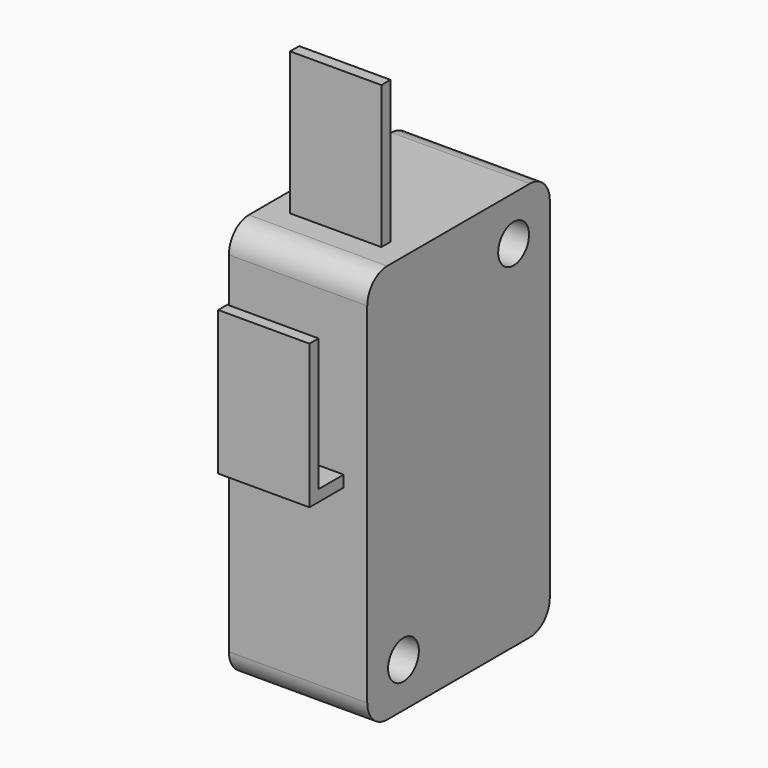
from build123d import *

# Parameters (mm, degrees)
SKETCH061_R             = 1.35
PAD061_DEPTH            = 9.7
SKETCH062_W             = 2.9
SKETCH062_H             = 4.1
PAD062_DEPTH            = 3
SKETCH063_W             = 0.8
SKETCH063_H             = 6.4
PAD063_DEPTH            = 10
SKETCH064_W             = 0.8
SKETCH064_H             = 6.4
PAD064_DEPTH            = 3
SKETCH065_W             = 0.8
SKETCH065_H             = 6.4
PAD065_DEPTH            = 9.3
FILLET009_R             = 1.2
BODY013_PLACEMENT_ANGLE = 90


with BuildPart() as part:
    # Sketch061 → Pad061 (new body)
    with BuildSketch(Plane.XY):
        with BuildLine():
            ThreePointArc((-12.25, 8), (-13.487437, 7.487437), (-14, 6.25))
            Line((-14, -6.25), (-14, 6.25))
            ThreePointArc((-14, -6.25), (-13.487437, -7.487437), (-12.25, -8))
            Line((12.25, -8), (-12.25, -8))
            ThreePointArc((12.25, -8), (13.487437, -7.487437), (14, -6.25))
            Line((14, 6.25), (14, -6.25))
            ThreePointArc((14, 6.25), (13.487437, 7.487437), (12.25, 8))
            Line((-12.25, 8), (12.25, 8))
        make_face()
        with Locations((10.877931, -4.825)):
            Circle(SKETCH061_R, mode=Mode.SUBTRACT)
        with Locations((-10.877931, 4.825)):
            Circle(SKETCH061_R, mode=Mode.SUBTRACT)
    extrude(amount=PAD061_DEPTH)

    # Sketch062 (on Face8 of Pad061) → Pad062 (join)
    with BuildSketch(Plane(origin=(0, 8, 0), x_dir=(-1, 0, 0), z_dir=(0, 1, 0))):
        with Locations((-9.45, 4.85)):
            Rectangle(SKETCH062_W, SKETCH062_H)
    extrude(amount=PAD062_DEPTH)

    # Sketch063 (on Face3 of Pad062) → Pad063 (join)
    with BuildSketch(Plane(origin=(-14, 0, 0), x_dir=(0, -1, 0), z_dir=(-1, 0, 0))):
        with Locations((4.3, 4.85)):
            Rectangle(SKETCH063_W, SKETCH063_H)
    extrude(amount=PAD063_DEPTH)

    # Sketch064 (on Face16 of Pad063) → Pad064 (join)
    with BuildSketch(Plane.XZ.offset(8)):
        with Locations((-0.9, 4.85)):
            Rectangle(SKETCH064_W, SKETCH064_H)
    extrude(amount=PAD064_DEPTH)

    # Sketch065 (on Face23 of Pad064) → Pad065 (join)
    with BuildSketch(Plane(origin=(-1.3, 0, 0), x_dir=(0, -1, 0), z_dir=(-1, 0, 0))):
        with Locations((10.6, 4.85)):
            Rectangle(SKETCH065_W, SKETCH065_H)
    extrude(amount=PAD065_DEPTH)

    # Fillet009
    fillet009_edges = [part.edges().sort_by_distance(p)[0] for p in [
        (10.9, 11, 4.85),
        (8, 11, 4.85),
    ]]
    fillet(fillet009_edges, radius=FILLET009_R)


with BuildPart() as part_1:
    # Body013 placement: moved
    add(part.part.moved(Location((239.8, 0, -97))).rotate(Axis((239.8, 0, -97), (0, 1, 0)), BODY013_PLACEMENT_ANGLE))


solid = part_1.part
